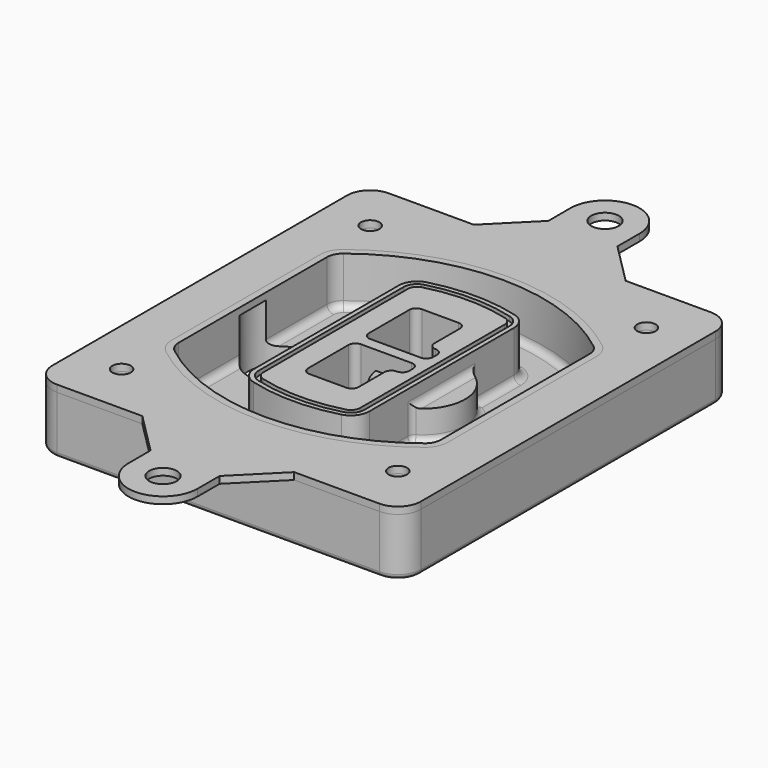
from build123d import *

# Parameters (mm, degrees)
F0_R      = 4
F1_DEPTH  = 25
F2_DEPTH  = 3
F3_DEPTH  = 18
F5_DEPTH  = 21
F6_DEPTH  = 2
F8_DEPTH  = 20
F9_DEPTH  = 16
F10_DEPTH = 25
F7_R      = 6
F7_R_2    = 4
F11_DEPTH = 6
F13_DEPTH = 9
F14_R     = 3
F15_R     = 2
F16_R     = 6
F16_R_2   = 4
F17_DEPTH = 3


with BuildPart() as f1:
    # F0 (on Top) → F1 (new body)
    with BuildSketch(Plane.XY):
        with BuildLine():
            ThreePointArc((-80, -80), (-77.0710678119, -87.0710678119), (-70, -90))
            Line((-70, -90), (70, -90))
            ThreePointArc((70, -90), (77.0710678119, -87.0710678119), (80, -80))
            Line((80, -80), (80, 80))
            ThreePointArc((80, 80), (77.0710678119, 87.0710678119), (70, 90))
            Line((70, 90), (-70, 90))
            ThreePointArc((-70, 90), (-77.0710678119, 87.0710678119), (-80, 80))
            Line((-80, 80), (-80, -80))
        make_face()
        with Locations((-60, -67.5)):
            Circle(F0_R, mode=Mode.SUBTRACT)
        with Locations((60, -67.5)):
            Circle(F0_R, mode=Mode.SUBTRACT)
        with Locations((-60, 67.5)):
            Circle(F0_R, mode=Mode.SUBTRACT)
        with BuildLine():
            ThreePointArc((-64, 40.2934422872), (-62.5820384798, 46.4328484224), (-58.6153846154, 51.3286200352))
            ThreePointArc((-58.6153846154, 51.3286200352), (0, 71.5), (58.6153846154, 51.3286200352))
            ThreePointArc((58.6153846154, 51.3286200352), (62.5820384798, 46.4328484224), (64, 40.2934422872))
            Line((64, 40.2934422872), (64, -40.2934422872))
            ThreePointArc((64, -40.2934422872), (62.5820384798, -46.4328484224), (58.6153846154, -51.3286200352))
            ThreePointArc((58.6153846154, -51.3286200352), (0, -71.5), (-58.6153846154, -51.3286200352))
            ThreePointArc((-58.6153846154, -51.3286200352), (-62.5820384798, -46.4328484224), (-64, -40.2934422872))
            Line((-64, -40.2934422872), (-64, 40.2934422872))
        make_face(mode=Mode.SUBTRACT)
        with Locations((60, 67.5)):
            Circle(F0_R, mode=Mode.SUBTRACT)
        with BuildLine():
            ThreePointArc((58.6153846154, 51.3286200352), (0, 71.5), (-58.6153846154, 51.3286200352))
            ThreePointArc((-58.6153846154, 51.3286200352), (-62.5820384798, 46.4328484224), (-64, 40.2934422872))
            Line((-64, 40.2934422872), (-64, -40.2934422872))
            ThreePointArc((-64, -40.2934422872), (-62.5820384798, -46.4328484224), (-58.6153846154, -51.3286200352))
            ThreePointArc((-58.6153846154, -51.3286200352), (0, -71.5), (58.6153846154, -51.3286200352))
            ThreePointArc((58.6153846154, -51.3286200352), (62.5820384798, -46.4328484224), (64, -40.2934422872))
            Line((64, -40.2934422872), (64, 40.2934422872))
            ThreePointArc((64, 40.2934422872), (62.5820384798, 46.4328484224), (58.6153846154, 51.3286200352))
        make_face()
        with BuildLine():
            Line((-60, -40.2934422872), (-60, 40.2934422872))
            ThreePointArc((-60, 40.2934422872), (-58.9871703427, 44.6787323838), (-56.1538461538, 48.1757121072))
            ThreePointArc((-56.1538461538, 48.1757121072), (0, 67.5), (56.1538461538, 48.1757121072))
            ThreePointArc((56.1538461538, 48.1757121072), (58.9871703427, 44.6787323838), (60, 40.2934422872))
            Line((60, 40.2934422872), (60, -40.2934422872))
            ThreePointArc((60, -40.2934422872), (58.9871703427, -44.6787323838), (56.1538461538, -48.1757121072))
            ThreePointArc((56.1538461538, -48.1757121072), (0, -67.5), (-56.1538461538, -48.1757121072))
            ThreePointArc((-56.1538461538, -48.1757121072), (-58.9871703427, -44.6787323838), (-60, -40.2934422872))
        make_face(mode=Mode.SUBTRACT)
        with BuildLine():
            ThreePointArc((-56.1538461538, 48.1757121072), (-58.9871703427, 44.6787323838), (-60, 40.2934422872))
            Line((-60, 40.2934422872), (-60, -40.2934422872))
            ThreePointArc((-60, -40.2934422872), (-58.9871703427, -44.6787323838), (-56.1538461538, -48.1757121072))
            ThreePointArc((-56.1538461538, -48.1757121072), (0, -67.5), (56.1538461538, -48.1757121072))
            ThreePointArc((56.1538461538, -48.1757121072), (58.9871703427, -44.6787323838), (60, -40.2934422872))
            Line((60, -40.2934422872), (60, 40.2934422872))
            ThreePointArc((60, 40.2934422872), (58.9871703427, 44.6787323838), (56.1538461538, 48.1757121072))
            ThreePointArc((56.1538461538, 48.1757121072), (0, 67.5), (-56.1538461538, 48.1757121072))
        make_face()
        with BuildLine():
            ThreePointArc((54.3076923077, 45.8110311612), (56.2910192399, 43.3631453548), (57, 40.2934422872))
            Line((57, 40.2934422872), (57, -40.2934422872))
            ThreePointArc((57, -40.2934422872), (56.2910192399, -43.3631453548), (54.3076923077, -45.8110311612))
            ThreePointArc((54.3076923077, -45.8110311612), (0, -64.5), (-54.3076923077, -45.8110311612))
            ThreePointArc((-54.3076923077, -45.8110311612), (-56.2910192399, -43.3631453548), (-57, -40.2934422872))
            Line((-57, -40.2934422872), (-57, 40.2934422872))
            ThreePointArc((-57, 40.2934422872), (-56.2910192399, 43.3631453548), (-54.3076923077, 45.8110311612))
            ThreePointArc((-54.3076923077, 45.8110311612), (0, 64.5), (54.3076923077, 45.8110311612))
        make_face(mode=Mode.SUBTRACT)
        with BuildLine():
            Line((57, -40.2934422872), (57, 40.2934422872))
            ThreePointArc((57, 40.2934422872), (56.2910192399, 43.3631453548), (54.3076923077, 45.8110311612))
            ThreePointArc((54.3076923077, 45.8110311612), (0, 64.5), (-54.3076923077, 45.8110311612))
            ThreePointArc((-54.3076923077, 45.8110311612), (-56.2910192399, 43.3631453548), (-57, 40.2934422872))
            Line((-57, 40.2934422872), (-57, -40.2934422872))
            ThreePointArc((-57, -40.2934422872), (-56.2910192399, -43.3631453548), (-54.3076923077, -45.8110311612))
            ThreePointArc((-54.3076923077, -45.8110311612), (0, -64.5), (54.3076923077, -45.8110311612))
            ThreePointArc((54.3076923077, -45.8110311612), (56.2910192399, -43.3631453548), (57, -40.2934422872))
        make_face()
    extrude(amount=-F1_DEPTH)

    # F0 (on Top) → F2 (join)
    with BuildSketch(Plane.XY):
        with BuildLine():
            ThreePointArc((-56.1538461538, 48.1757121072), (-58.9871703427, 44.6787323838), (-60, 40.2934422872))
            Line((-60, 40.2934422872), (-60, -40.2934422872))
            ThreePointArc((-60, -40.2934422872), (-58.9871703427, -44.6787323838), (-56.1538461538, -48.1757121072))
            ThreePointArc((-56.1538461538, -48.1757121072), (0, -67.5), (56.1538461538, -48.1757121072))
            ThreePointArc((56.1538461538, -48.1757121072), (58.9871703427, -44.6787323838), (60, -40.2934422872))
            Line((60, -40.2934422872), (60, 40.2934422872))
            ThreePointArc((60, 40.2934422872), (58.9871703427, 44.6787323838), (56.1538461538, 48.1757121072))
            ThreePointArc((56.1538461538, 48.1757121072), (0, 67.5), (-56.1538461538, 48.1757121072))
        make_face()
        with BuildLine():
            ThreePointArc((54.3076923077, 45.8110311612), (56.2910192399, 43.3631453548), (57, 40.2934422872))
            Line((57, 40.2934422872), (57, -40.2934422872))
            ThreePointArc((57, -40.2934422872), (56.2910192399, -43.3631453548), (54.3076923077, -45.8110311612))
            ThreePointArc((54.3076923077, -45.8110311612), (0, -64.5), (-54.3076923077, -45.8110311612))
            ThreePointArc((-54.3076923077, -45.8110311612), (-56.2910192399, -43.3631453548), (-57, -40.2934422872))
            Line((-57, -40.2934422872), (-57, 40.2934422872))
            ThreePointArc((-57, 40.2934422872), (-56.2910192399, 43.3631453548), (-54.3076923077, 45.8110311612))
            ThreePointArc((-54.3076923077, 45.8110311612), (0, 64.5), (54.3076923077, 45.8110311612))
        make_face(mode=Mode.SUBTRACT)
    extrude(amount=F2_DEPTH)

    # F0 (on Top) → F3 (cut)
    with BuildSketch(Plane.XY):
        with BuildLine():
            Line((57, -40.2934422872), (57, 40.2934422872))
            ThreePointArc((57, 40.2934422872), (56.2910192399, 43.3631453548), (54.3076923077, 45.8110311612))
            ThreePointArc((54.3076923077, 45.8110311612), (0, 64.5), (-54.3076923077, 45.8110311612))
            ThreePointArc((-54.3076923077, 45.8110311612), (-56.2910192399, 43.3631453548), (-57, 40.2934422872))
            Line((-57, 40.2934422872), (-57, -40.2934422872))
            ThreePointArc((-57, -40.2934422872), (-56.2910192399, -43.3631453548), (-54.3076923077, -45.8110311612))
            ThreePointArc((-54.3076923077, -45.8110311612), (0, -64.5), (54.3076923077, -45.8110311612))
            ThreePointArc((54.3076923077, -45.8110311612), (56.2910192399, -43.3631453548), (57, -40.2934422872))
        make_face()
    extrude(amount=-F3_DEPTH, mode=Mode.SUBTRACT)

    # F4 (on face) → F5 (join, through all)
    with BuildSketch(Plane.XY.offset(3)):
        with BuildLine():
            ThreePointArc((-25, -39.2465276821), (-23.3511545998, -44.1109737193), (-19.0842911877, -46.9702398883))
            ThreePointArc((-19.0842911877, -46.9702398883), (0, -49.5), (19.0842911877, -46.9702398883))
            ThreePointArc((19.0842911877, -46.9702398883), (23.3511545998, -44.1109737193), (25, -39.2465276821))
            Line((25, -39.2465276821), (25, 39.2465276821))
            ThreePointArc((25, 39.2465276821), (23.3511545998, 44.1109737193), (19.0842911877, 46.9702398883))
            ThreePointArc((19.0842911877, 46.9702398883), (0, 49.5), (-19.0842911877, 46.9702398883))
            ThreePointArc((-19.0842911877, 46.9702398883), (-23.3511545998, 44.1109737193), (-25, 39.2465276821))
            Line((-25, 39.2465276821), (-25, -39.2465276821))
        make_face()
        with BuildLine():
            ThreePointArc((18.5632183908, 45.0393118368), (21.7633659499, 42.89486221), (23, 39.2465276821))
            Line((23, 39.2465276821), (23, -39.2465276821))
            ThreePointArc((23, -39.2465276821), (21.7633659499, -42.89486221), (18.5632183908, -45.0393118368))
            ThreePointArc((18.5632183908, -45.0393118368), (0, -47.5), (-18.5632183908, -45.0393118368))
            ThreePointArc((-18.5632183908, -45.0393118368), (-21.7633659499, -42.89486221), (-23, -39.2465276821))
            Line((-23, -39.2465276821), (-23, 39.2465276821))
            ThreePointArc((-23, 39.2465276821), (-21.7633659499, 42.89486221), (-18.5632183908, 45.0393118368))
            ThreePointArc((-18.5632183908, 45.0393118368), (0, 47.5), (18.5632183908, 45.0393118368))
        make_face(mode=Mode.SUBTRACT)
        with BuildLine():
            Line((23, -39.2465276821), (23, 39.2465276821))
            ThreePointArc((23, 39.2465276821), (21.7633659499, 42.89486221), (18.5632183908, 45.0393118368))
            ThreePointArc((18.5632183908, 45.0393118368), (0, 47.5), (-18.5632183908, 45.0393118368))
            ThreePointArc((-18.5632183908, 45.0393118368), (-21.7633659499, 42.89486221), (-23, 39.2465276821))
            Line((-23, 39.2465276821), (-23, -39.2465276821))
            ThreePointArc((-23, -39.2465276821), (-21.7633659499, -42.89486221), (-18.5632183908, -45.0393118368))
            ThreePointArc((-18.5632183908, -45.0393118368), (0, -47.5), (18.5632183908, -45.0393118368))
            ThreePointArc((18.5632183908, -45.0393118368), (21.7633659499, -42.89486221), (23, -39.2465276821))
        make_face()
        with BuildLine():
            ThreePointArc((18.0421455939, 43.1083837852), (20.1755772999, 41.6787507007), (21, 39.2465276821))
            Line((21, 39.2465276821), (21, -39.2465276821))
            ThreePointArc((21, -39.2465276821), (20.1755772999, -41.6787507007), (18.0421455939, -43.1083837852))
            ThreePointArc((18.0421455939, -43.1083837852), (0, -45.5), (-18.0421455939, -43.1083837852))
            ThreePointArc((-18.0421455939, -43.1083837852), (-20.1755772999, -41.6787507007), (-21, -39.2465276821))
            Line((-21, -39.2465276821), (-21, 39.2465276821))
            ThreePointArc((-21, 39.2465276821), (-20.1755772999, 41.6787507007), (-18.0421455939, 43.1083837852))
            ThreePointArc((-18.0421455939, 43.1083837852), (0, 45.5), (18.0421455939, 43.1083837852))
        make_face(mode=Mode.SUBTRACT)
        with BuildLine():
            Line((21, -39.2465276821), (21, 39.2465276821))
            ThreePointArc((21, 39.2465276821), (20.1755772999, 41.6787507007), (18.0421455939, 43.1083837852))
            ThreePointArc((18.0421455939, 43.1083837852), (0, 45.5), (-18.0421455939, 43.1083837852))
            ThreePointArc((-18.0421455939, 43.1083837852), (-20.1755772999, 41.6787507007), (-21, 39.2465276821))
            Line((-21, 39.2465276821), (-21, -39.2465276821))
            ThreePointArc((-21, -39.2465276821), (-20.1755772999, -41.6787507007), (-18.0421455939, -43.1083837852))
            ThreePointArc((-18.0421455939, -43.1083837852), (0, -45.5), (18.0421455939, -43.1083837852))
            ThreePointArc((18.0421455939, -43.1083837852), (20.1755772999, -41.6787507007), (21, -39.2465276821))
        make_face()
        with BuildLine():
            Line((-8, -2.5), (14, -2.5))
            ThreePointArc((14, -2.5), (16.1213203436, -3.3786796564), (17, -5.5))
            Line((17, -5.5), (17, -7.5))
            ThreePointArc((17, -7.5), (16.1213203436, -9.6213203436), (14, -10.5))
            ThreePointArc((14, -10.5), (11.8786796564, -11.3786796564), (11, -13.5))
            Line((11, -13.5), (11, -27.5))
            ThreePointArc((11, -27.5), (10.1213203436, -29.6213203436), (8, -30.5))
            Line((8, -30.5), (-8, -30.5))
            ThreePointArc((-8, -30.5), (-10.1213203436, -29.6213203436), (-11, -27.5))
            Line((-11, -27.5), (-11, -5.5))
            ThreePointArc((-11, -5.5), (-10.1213203436, -3.3786796564), (-8, -2.5))
        make_face(mode=Mode.SUBTRACT)
        with BuildLine():
            ThreePointArc((-8, 2.5), (-10.1213203436, 3.3786796564), (-11, 5.5))
            Line((-11, 5.5), (-11, 27.5))
            ThreePointArc((-11, 27.5), (-10.1213203436, 29.6213203436), (-8, 30.5))
            Line((-8, 30.5), (8, 30.5))
            ThreePointArc((8, 30.5), (10.1213203436, 29.6213203436), (11, 27.5))
            Line((11, 27.5), (11, 13.5))
            ThreePointArc((11, 13.5), (11.8786796564, 11.3786796564), (14, 10.5))
            ThreePointArc((14, 10.5), (16.1213203436, 9.6213203436), (17, 7.5))
            Line((17, 7.5), (17, 5.5))
            ThreePointArc((17, 5.5), (16.1213203436, 3.3786796564), (14, 2.5))
            Line((14, 2.5), (-8, 2.5))
        make_face(mode=Mode.SUBTRACT)
    extrude(amount=-F5_DEPTH)

    # F4 (on face) → F6 (cut)
    with BuildSketch(Plane.XY.offset(3)):
        with BuildLine():
            Line((23, -39.2465276821), (23, 39.2465276821))
            ThreePointArc((23, 39.2465276821), (21.7633659499, 42.89486221), (18.5632183908, 45.0393118368))
            ThreePointArc((18.5632183908, 45.0393118368), (0, 47.5), (-18.5632183908, 45.0393118368))
            ThreePointArc((-18.5632183908, 45.0393118368), (-21.7633659499, 42.89486221), (-23, 39.2465276821))
            Line((-23, 39.2465276821), (-23, -39.2465276821))
            ThreePointArc((-23, -39.2465276821), (-21.7633659499, -42.89486221), (-18.5632183908, -45.0393118368))
            ThreePointArc((-18.5632183908, -45.0393118368), (0, -47.5), (18.5632183908, -45.0393118368))
            ThreePointArc((18.5632183908, -45.0393118368), (21.7633659499, -42.89486221), (23, -39.2465276821))
        make_face()
        with BuildLine():
            ThreePointArc((18.0421455939, 43.1083837852), (20.1755772999, 41.6787507007), (21, 39.2465276821))
            Line((21, 39.2465276821), (21, -39.2465276821))
            ThreePointArc((21, -39.2465276821), (20.1755772999, -41.6787507007), (18.0421455939, -43.1083837852))
            ThreePointArc((18.0421455939, -43.1083837852), (0, -45.5), (-18.0421455939, -43.1083837852))
            ThreePointArc((-18.0421455939, -43.1083837852), (-20.1755772999, -41.6787507007), (-21, -39.2465276821))
            Line((-21, -39.2465276821), (-21, 39.2465276821))
            ThreePointArc((-21, 39.2465276821), (-20.1755772999, 41.6787507007), (-18.0421455939, 43.1083837852))
            ThreePointArc((-18.0421455939, 43.1083837852), (0, 45.5), (18.0421455939, 43.1083837852))
        make_face(mode=Mode.SUBTRACT)
    extrude(amount=-F6_DEPTH, mode=Mode.SUBTRACT)

    # F7 (on face) → F8 (join)
    with BuildSketch(Plane(origin=(0, 0, -25), x_dir=(1, 0, 0), z_dir=(0, 0, -1))):
        with BuildLine():
            ThreePointArc((3.28842436, 0), (16.7567035675, 13.4682792075), (30.224982775, 0))
            Line((30.224982775, 0), (35.224982775, 0))
            ThreePointArc((35.224982775, 0), (16.7567035675, 18.4682792075), (-1.71157564, 0))
            Line((-1.71157564, 0), (3.28842436, 0))
        make_face()
        with BuildLine():
            Line((3.28842436, 0), (30.224982775, 0))
            ThreePointArc((30.224982775, 0), (16.7567035675, 13.4682792075), (3.28842436, 0))
        make_face()
        with BuildLine():
            ThreePointArc((3.28842436, 0), (16.7567035675, -13.4682792075), (30.224982775, 0))
            Line((30.224982775, 0), (3.28842436, 0))
        make_face()
        with BuildLine():
            Line((35.224982775, 0), (30.224982775, 0))
            ThreePointArc((30.224982775, 0), (16.7567035675, -13.4682792075), (3.28842436, 0))
            Line((3.28842436, 0), (-1.71157564, 0))
            ThreePointArc((-1.71157564, 0), (16.7567035675, -18.4682792075), (35.224982775, 0))
        make_face()
    extrude(amount=-F8_DEPTH)

    # F7 (on face) → F9 (cut)
    with BuildSketch(Plane(origin=(0, 0, -25), x_dir=(1, 0, 0), z_dir=(0, 0, -1))):
        with BuildLine():
            Line((3.28842436, 0), (30.224982775, 0))
            ThreePointArc((30.224982775, 0), (16.7567035675, 13.4682792075), (3.28842436, 0))
        make_face()
        with BuildLine():
            ThreePointArc((3.28842436, 0), (16.7567035675, -13.4682792075), (30.224982775, 0))
            Line((30.224982775, 0), (3.28842436, 0))
        make_face()
    extrude(amount=-F9_DEPTH, mode=Mode.SUBTRACT)

    # F7 (on face) → F10 (cut)
    with BuildSketch(Plane(origin=(0, 0, -25), x_dir=(1, 0, 0), z_dir=(0, 0, -1))):
        with BuildLine():
            Line((-59.0318229325, 0), (-32.0952645175, 0))
            ThreePointArc((-32.0952645175, 0), (-45.563543725, 13.4682792075), (-59.0318229325, 0))
        make_face()
        with BuildLine():
            ThreePointArc((-59.0318229325, 0), (-45.563543725, -13.4682792075), (-32.0952645175, 0))
            Line((-32.0952645175, 0), (-59.0318229325, 0))
        make_face()
    extrude(amount=-F10_DEPTH, mode=Mode.SUBTRACT)

    # F7 (on face) → F11 (cut)
    with BuildSketch(Plane(origin=(0, 0, -25), x_dir=(1, 0, 0), z_dir=(0, 0, -1))):
        with Locations((60, -67.5)):
            Circle(F7_R)
        with Locations((60, -67.5)):
            Circle(F7_R_2, mode=Mode.SUBTRACT)
        with Locations((60, -67.5)):
            Circle(F7_R)
        with Locations((60, -67.5)):
            Circle(F7_R_2, mode=Mode.SUBTRACT)
        with Locations((-60, -67.5)):
            Circle(F7_R)
        with Locations((-60, -67.5)):
            Circle(F7_R_2, mode=Mode.SUBTRACT)
        with Locations((-60, -67.5)):
            Circle(F7_R)
        with Locations((-60, -67.5)):
            Circle(F7_R_2, mode=Mode.SUBTRACT)
        with Locations((-60, 67.5)):
            Circle(F7_R)
        with Locations((-60, 67.5)):
            Circle(F7_R_2, mode=Mode.SUBTRACT)
        with Locations((-60, 67.5)):
            Circle(F7_R)
        with Locations((-60, 67.5)):
            Circle(F7_R_2, mode=Mode.SUBTRACT)
        with Locations((60, 67.5)):
            Circle(F7_R)
        with Locations((60, 67.5)):
            Circle(F7_R_2, mode=Mode.SUBTRACT)
        with Locations((60, 67.5)):
            Circle(F7_R)
        with Locations((60, 67.5)):
            Circle(F7_R_2, mode=Mode.SUBTRACT)
    extrude(amount=-F11_DEPTH, mode=Mode.SUBTRACT)

    # F12 (on face) → F13 (cut, through all)
    with BuildSketch(Plane(origin=(0, 0, -9), x_dir=(1, 0, 0), z_dir=(0, 0, -1))):
        with BuildLine():
            Line((11, 13.5), (11, 17.5481537753))
            ThreePointArc((11, 17.5481537753), (2.5696536419, 11.8239143813), (-1.5415842455, 2.5))
            Line((-1.5415842455, 2.5), (3.5224848595, 2.5))
            ThreePointArc((3.5224848595, 2.5), (6.1857188154, 8.3455872281), (11.2536447004, 12.2927168648))
            ThreePointArc((11.2536447004, 12.2927168648), (11.0640958889, 12.8831798879), (11, 13.5))
        make_face()
        with BuildLine():
            ThreePointArc((11.2536447004, -12.2927168648), (6.1857188154, -8.3455872281), (3.5224848595, -2.5))
            Line((3.5224848595, -2.5), (-1.5415842455, -2.5))
            ThreePointArc((-1.5415842455, -2.5), (2.5696536419, -11.8239143813), (11, -17.5481537753))
            Line((11, -17.5481537753), (11, -13.5))
            ThreePointArc((11, -13.5), (11.0640958889, -12.8831798879), (11.2536447004, -12.2927168648))
        make_face()
        with BuildLine():
            ThreePointArc((11.2536447004, 12.2927168648), (6.1857188154, 8.3455872281), (3.5224848595, 2.5))
            Line((3.5224848595, 2.5), (14, 2.5))
            ThreePointArc((14, 2.5), (16.1213203436, 3.3786796564), (17, 5.5))
            Line((17, 5.5), (17, 7.5))
            ThreePointArc((17, 7.5), (16.1213203436, 9.6213203436), (14, 10.5))
            ThreePointArc((14, 10.5), (12.3601599782, 10.9878446101), (11.2536447004, 12.2927168648))
        make_face()
        with BuildLine():
            Line((14, -2.5), (3.5224848595, -2.5))
            ThreePointArc((3.5224848595, -2.5), (6.1857188154, -8.3455872281), (11.2536447004, -12.2927168648))
            ThreePointArc((11.2536447004, -12.2927168648), (12.3601599782, -10.9878446101), (14, -10.5))
            ThreePointArc((14, -10.5), (16.1213203436, -9.6213203436), (17, -7.5))
            Line((17, -7.5), (17, -5.5))
            ThreePointArc((17, -5.5), (16.1213203436, -3.3786796564), (14, -2.5))
        make_face()
    extrude(amount=F13_DEPTH, mode=Mode.SUBTRACT)

    # F14
    f14_edges = [f1.edges().sort_by_distance(p)[0] for p in [
        (-57, -23.703476, -18),
        (-57, 23.703476, -18),
        (25, 0, -5),
        (25, 16.526506, -11.5),
        (25, -16.526506, -11.5),
        (25, -27.886517, -18),
        (35.224983, 0, -18),
    ]]
    fillet(f14_edges, radius=F14_R)

    # F15
    f15_edges = [f1.edges().sort_by_distance(p)[0] for p in [
        (0, -90, -25),
    ]]
    fillet(f15_edges, radius=F15_R)


with BuildPart() as f17:
    # F16 (on face) → F17 (new body, through all)
    with BuildSketch(Plane.XY):
        with BuildLine():
            Line((15, -108), (32.9733393018, -90))
            Line((32.9733393018, -90), (-32.9733393018, -90))
            Line((-32.9733393018, -90), (-15, -108))
            Line((-15, -108), (-15, -120))
            ThreePointArc((-15, -120), (0, -135), (15, -120))
            Line((15, -120), (15, -108))
        make_face()
        with Locations((0, -120)):
            Circle(F16_R, mode=Mode.SUBTRACT)
        with BuildLine():
            Line((70, 90), (32.9733393018, 90))
            Line((32.9733393018, 90), (-32.9733393018, 90))
            Line((-32.9733393018, 90), (-70, 90))
            ThreePointArc((-70, 90), (-77.0710678119, 87.0710678119), (-80, 80))
            Line((-80, 80), (-80, -80))
            ThreePointArc((-80, -80), (-77.0710678119, -87.0710678119), (-70, -90))
            Line((-70, -90), (-32.9733393018, -90))
            Line((-32.9733393018, -90), (32.9733393018, -90))
            Line((32.9733393018, -90), (70, -90))
            ThreePointArc((70, -90), (77.0710678119, -87.0710678119), (80, -80))
            Line((80, -80), (80, 80))
            ThreePointArc((80, 80), (77.0710678119, 87.0710678119), (70, 90))
        make_face()
        with Locations((-60, -67.5)):
            Circle(F16_R_2, mode=Mode.SUBTRACT)
        with Locations((60, -67.5)):
            Circle(F16_R_2, mode=Mode.SUBTRACT)
        with Locations((-60, 67.5)):
            Circle(F16_R_2, mode=Mode.SUBTRACT)
        with BuildLine():
            ThreePointArc((-60, 40.2934422872), (-58.9871703427, 44.6787323838), (-56.1538461538, 48.1757121072))
            ThreePointArc((-56.1538461538, 48.1757121072), (0, 67.5), (56.1538461538, 48.1757121072))
            ThreePointArc((56.1538461538, 48.1757121072), (58.9871703427, 44.6787323838), (60, 40.2934422872))
            Line((60, 40.2934422872), (60, -40.2934422872))
            ThreePointArc((60, -40.2934422872), (58.9871703427, -44.6787323838), (56.1538461538, -48.1757121072))
            ThreePointArc((56.1538461538, -48.1757121072), (0, -67.5), (-56.1538461538, -48.1757121072))
            ThreePointArc((-56.1538461538, -48.1757121072), (-58.9871703427, -44.6787323838), (-60, -40.2934422872))
            Line((-60, -40.2934422872), (-60, 40.2934422872))
        make_face(mode=Mode.SUBTRACT)
        with Locations((60, 67.5)):
            Circle(F16_R_2, mode=Mode.SUBTRACT)
        with BuildLine():
            Line((15, 108), (15, 120))
            ThreePointArc((15, 120), (0, 135), (-15, 120))
            Line((-15, 120), (-15, 108))
            Line((-15, 108), (-32.9733393018, 90))
            Line((-32.9733393018, 90), (32.9733393018, 90))
            Line((32.9733393018, 90), (15, 108))
        make_face()
        with Locations((0, 120)):
            Circle(F16_R, mode=Mode.SUBTRACT)
    extrude(amount=F17_DEPTH)


solid = Compound([f1.part, f17.part])
